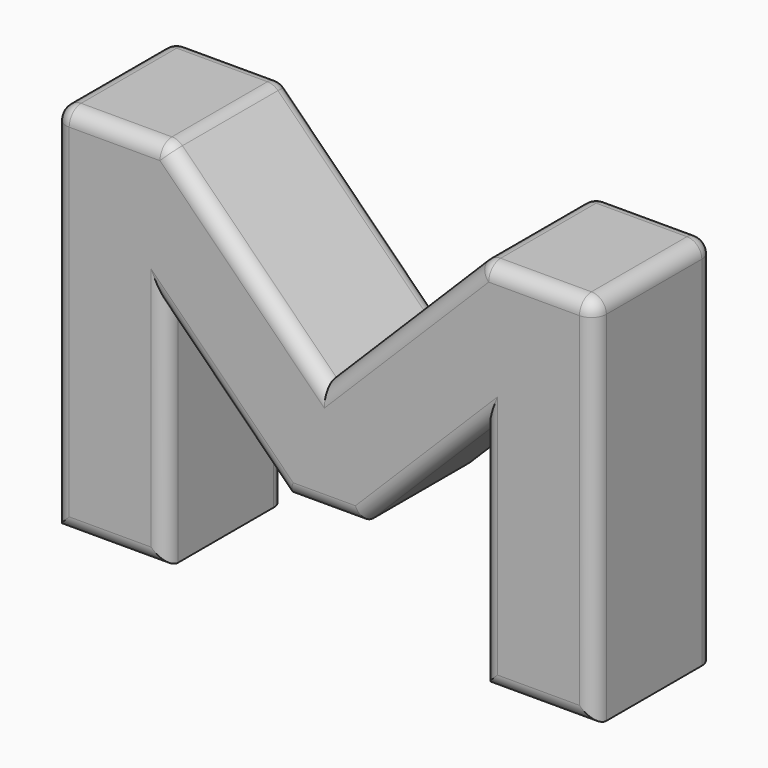
from build123d import *

# Parameters (mm, degrees)
F1_DEPTH = 20
F2_R     = 2


with BuildPart() as f1:
    # F0 (on Front) → F1 (new body)
    with BuildSketch(Plane.XZ):
        Polygon((21.213203, 21.213203), (0, 0), (-21.213203, 21.213203), (-36.213203, 21.213203), (-36.213203, -28.786797), (-21.213203, -28.786797), (-21.213203, 1.213203), (-5, -15), (5, -15), (21.213203, 1.213203), (21.213203, -28.786797), (36.213203, -28.786797), (36.213203, 21.213203), align=None)
    extrude(amount=F1_DEPTH)

    # F2
    f2_edges = [f1.edges().sort_by_distance(p)[0] for p in [
        (-36.213203, -20, -3.786797),
        (36.213203, -20, -3.786797),
        (28.713203, -20, 21.213203),
        (36.213203, -10, 21.213203),
        (36.213203, 0, -3.786797),
        (28.713203, 0, 21.213203),
        (-36.213203, 0, -3.786797),
        (-36.213203, -10, 21.213203),
        (-28.713203, 0, 21.213203),
        (-28.713203, -20, 21.213203),
        (-10.606602, 0, 10.606602),
        (-21.213203, -10, 21.213203),
        (-10.606602, -20, 10.606602),
        (10.606602, -20, 10.606602),
        (10.606602, 0, 10.606602),
        (21.213203, -10, 21.213203),
        (-21.213203, -20, -13.786797),
        (-21.213203, 0, -13.786797),
        (-13.106602, -20, -6.893398),
        (13.106602, -20, -6.893398),
        (21.213203, -20, -13.786797),
        (13.106602, 0, -6.893398),
        (21.213203, 0, -13.786797),
        (-13.106602, 0, -6.893398),
        (0, 0, -15),
        (0, -20, -15),
        (-28.713203, -20, -28.786797),
        (28.713203, -20, -28.786797),
    ]]
    fillet(f2_edges, radius=F2_R)


solid = f1.part
